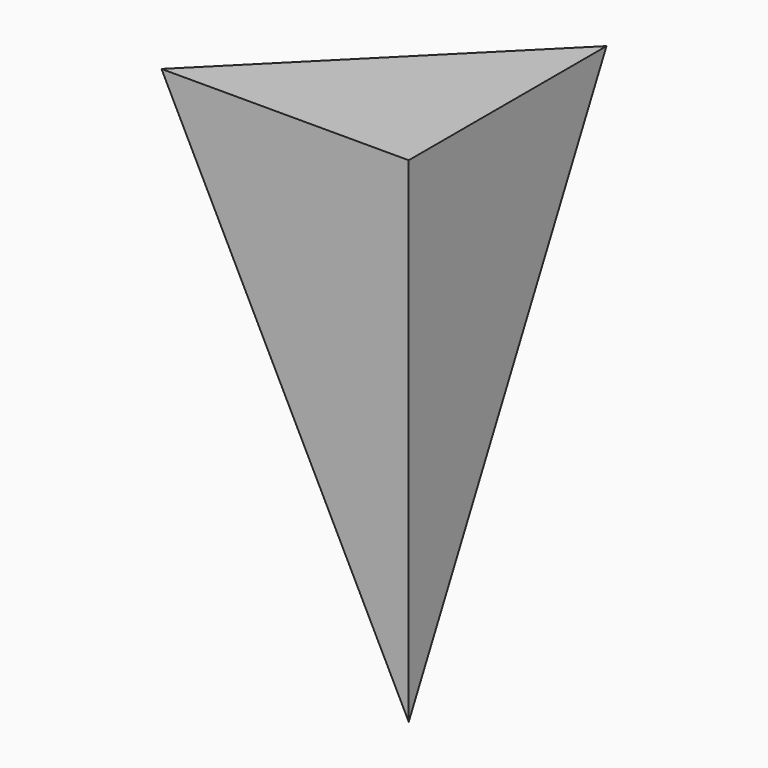
from build123d import *

# Parameters (mm, degrees)
F0_W     = 10
F0_H     = 10
F1_DEPTH = 5
F6_W     = 23.5226610675
F6_H     = 28.2299732789
F7_DEPTH = 13.3343333333


with BuildPart() as f1:
    # F0 (on Front) → F1 (new body, symmetric)
    with BuildSketch(Plane.XZ):
        Rectangle(F0_W, F0_H)
    extrude(amount=F1_DEPTH, both=True)

    # F6 (on 3pt) → F7 (cut, through all)
    with BuildSketch(Plane(origin=(3.3333333333, -3.3333333333, 1.6666666667), x_dir=(0.7453559925, 0.596284794, -0.298142397), z_dir=(0.6666666667, -0.6666666667, 0.3333333333))):
        with Locations((-0.6495066918, -0.7236744277)):
            Rectangle(F6_W, F6_H)
    extrude(amount=-F7_DEPTH, mode=Mode.SUBTRACT)


solid = f1.part
